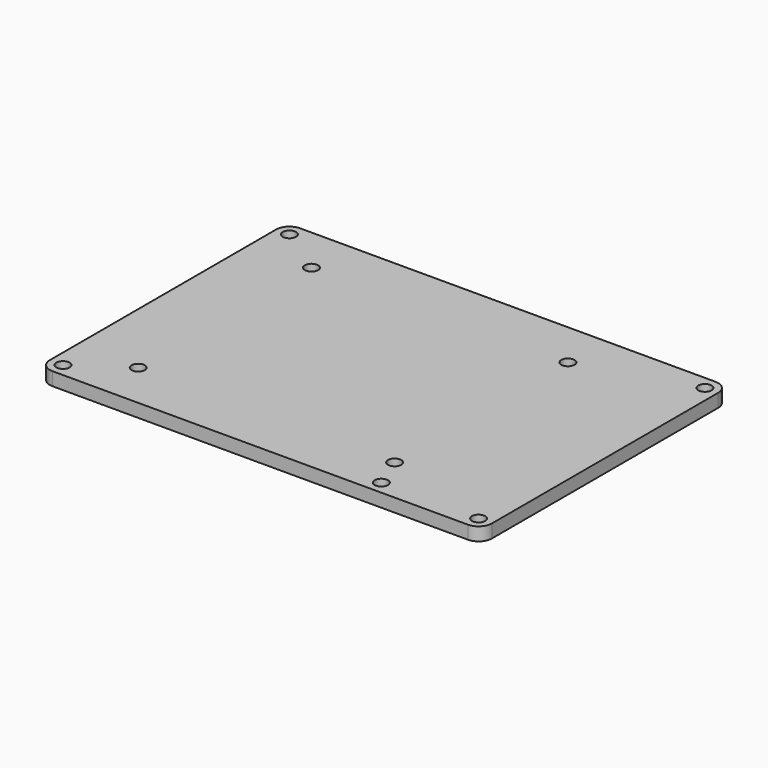
from build123d import *

# Parameters (mm, degrees)
F0_R     = 1.5
F1_DEPTH = 3


with BuildPart() as f1:
    # F0 (on Top) → F1 (new body)
    with BuildSketch(Plane.XY):
        with BuildLine():
            ThreePointArc((0, 3), (0.87868, 0.87868), (3, 0))
            Line((3, 0), (97, 0))
            ThreePointArc((97, 0), (99.12132, 0.87868), (100, 3))
            Line((100, 3), (100, 67))
            ThreePointArc((100, 67), (99.12132, 69.12132), (97, 70))
            Line((97, 70), (3, 70))
            ThreePointArc((3, 70), (0.87868, 69.12132), (0, 67))
            Line((0, 67), (0, 3))
        make_face()
        with Locations((3, 3)):
            Circle(F0_R, mode=Mode.SUBTRACT)
        with Locations((14, 10.5)):
            Circle(F0_R, mode=Mode.SUBTRACT)
        with Locations((72, 10.5)):
            Circle(F0_R, mode=Mode.SUBTRACT)
        with Locations((75, 3)):
            Circle(F0_R, mode=Mode.SUBTRACT)
        with Locations((97, 3)):
            Circle(F0_R, mode=Mode.SUBTRACT)
        with Locations((14, 59.5)):
            Circle(F0_R, mode=Mode.SUBTRACT)
        with Locations((3, 67)):
            Circle(F0_R, mode=Mode.SUBTRACT)
        with Locations((72, 59.5)):
            Circle(F0_R, mode=Mode.SUBTRACT)
        with Locations((97, 67)):
            Circle(F0_R, mode=Mode.SUBTRACT)
    extrude(amount=F1_DEPTH)


solid = f1.part
